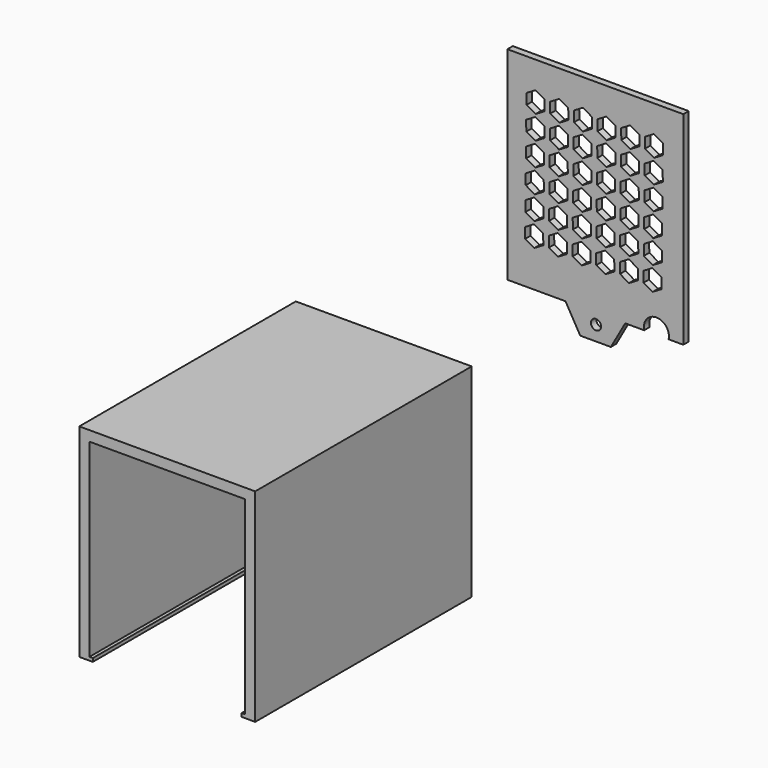
from build123d import *

# Parameters (mm, degrees)
F1_DEPTH = 80
F2_W     = 52
F2_H     = 60
F3_DEPTH = 2
F5_DEPTH = 2
F6_R     = 1.5
F7_DEPTH = 2
F9_DEPTH = 2


with BuildPart() as f1:
    # F0 (on Front) → F1 (new body)
    with BuildSketch(Plane.XZ):
        Polygon((-29.206732, -51.057696), (-25.206732, -51.057696), (-25.206732, -50.057696), (-26.206732, -50.057696), (-26.206732, 5.942304), (19.793268, 5.942304), (19.793268, -50.057696), (18.793268, -50.057696), (18.793268, -51.057696), (22.793268, -51.057696), (22.793268, 8.942304), (-29.206732, 8.942304), align=None)
    extrude(amount=F1_DEPTH)


with BuildPart() as f3:
    # F2 (on Front) → F3 (new body)
    with BuildSketch(Plane.XZ):
        with Locations((59.342861, 64.913309)):
            Rectangle(F2_W, F2_H)
    extrude(amount=-F3_DEPTH)

    # F4 (on face) → F5 (cut)
    with BuildSketch(Plane(origin=(0, 2, 0), x_dir=(-1, 0, 0), z_dir=(0, 1, 0))):
        Polygon((-76.702054, 80.735688), (-74.009892, 82.250348), (-73.975546, 85.339159), (-76.633361, 86.913309), (-79.325523, 85.398649), (-79.359869, 82.309838), align=None)
        Polygon((-69.633363, 86.918969), (-72.325525, 85.404308), (-72.359871, 82.315498), (-69.702056, 80.741348), (-67.009895, 82.256008), (-66.975548, 85.344818), align=None)
        Polygon((-62.633365, 86.924629), (-65.325527, 85.409968), (-65.359874, 82.321158), (-62.702058, 80.747007), (-60.009897, 82.261668), (-59.97555, 85.350478), align=None)
        Polygon((-55.633368, 86.930288), (-58.325529, 85.415628), (-58.359876, 82.326817), (-55.702061, 80.752667), (-53.009899, 82.267328), (-52.975553, 85.356138), align=None)
        Polygon((-48.63337, 86.935948), (-51.325532, 85.421288), (-51.359878, 82.332477), (-48.702063, 80.758327), (-46.009901, 82.272987), (-45.975555, 85.361798), align=None)
        Polygon((-41.633372, 86.941608), (-44.325534, 85.426948), (-44.35988, 82.338137), (-41.702065, 80.763987), (-39.009904, 82.278647), (-38.975557, 85.367458), align=None)
        Polygon((-41.62137, 73.764452), (-38.929208, 75.279112), (-38.894862, 78.367923), (-41.552677, 79.942073), (-44.244839, 78.427413), (-44.279185, 75.338602), align=None)
        Polygon((-58.244834, 78.416093), (-58.279181, 75.327283), (-55.621365, 73.753132), (-52.929204, 75.267793), (-52.894857, 78.356603), (-55.552672, 79.930753), align=None)
        Polygon((-51.244836, 78.421753), (-51.279183, 75.332942), (-48.621368, 73.758792), (-45.929206, 75.273453), (-45.89486, 78.362263), (-48.552675, 79.936413), align=None)
        Polygon((-65.279178, 75.321623), (-62.621363, 73.747473), (-59.929201, 75.262133), (-59.894855, 78.350943), (-62.55267, 79.925094), (-65.244832, 78.410433), align=None)
        Polygon((-66.894853, 78.345284), (-69.552668, 79.919434), (-72.244829, 78.404774), (-72.279176, 75.315963), (-69.621361, 73.741813), (-66.929199, 75.256473), align=None)
        Polygon((-76.621359, 73.736153), (-73.929197, 75.250813), (-73.89485, 78.339624), (-76.552666, 79.913774), (-79.244827, 78.399114), (-79.279174, 75.310303), align=None)
        Polygon((-41.540675, 66.764917), (-38.848513, 68.279578), (-38.814166, 71.368388), (-41.471982, 72.942538), (-44.164143, 71.427878), (-44.19849, 68.339067), align=None)
        Polygon((-58.164139, 71.416558), (-58.198485, 68.327748), (-55.54067, 66.753598), (-52.848508, 68.268258), (-52.814162, 71.357068), (-55.471977, 72.931219), align=None)
        Polygon((-51.164141, 71.422218), (-51.198487, 68.333408), (-48.540672, 66.759257), (-45.848511, 68.273918), (-45.814164, 71.362728), (-48.471979, 72.936878), align=None)
        Polygon((-65.198483, 68.322088), (-62.540668, 66.747938), (-59.848506, 68.262598), (-59.81416, 71.351409), (-62.471975, 72.925559), (-65.164136, 71.410898), align=None)
        Polygon((-66.814157, 71.345749), (-69.471972, 72.919899), (-72.164134, 71.405239), (-72.198481, 68.316428), (-69.540665, 66.742278), (-66.848504, 68.256938), align=None)
        Polygon((-76.540663, 66.736618), (-73.848502, 68.251278), (-73.814155, 71.340089), (-76.47197, 72.914239), (-79.164132, 71.399579), (-79.198478, 68.310768), align=None)
        Polygon((-41.459979, 59.765382), (-38.767818, 61.280043), (-38.733471, 64.368853), (-41.391286, 65.943003), (-44.083448, 64.428343), (-44.117794, 61.339533), align=None)
        Polygon((-58.083443, 64.417023), (-58.11779, 61.328213), (-55.459975, 59.754063), (-52.767813, 61.268723), (-52.733466, 64.357534), (-55.391282, 65.931684), align=None)
        Polygon((-51.083446, 64.422683), (-51.117792, 61.333873), (-48.459977, 59.759722), (-45.767815, 61.274383), (-45.733469, 64.363193), (-48.391284, 65.937344), align=None)
        Polygon((-65.117788, 61.322553), (-62.459972, 59.748403), (-59.767811, 61.263063), (-59.733464, 64.351874), (-62.391279, 65.926024), (-65.083441, 64.411364), align=None)
        Polygon((-66.733462, 64.346214), (-69.391277, 65.920364), (-72.083439, 64.405704), (-72.117785, 61.316893), (-69.45997, 59.742743), (-66.767808, 61.257403), align=None)
        Polygon((-76.459968, 59.737083), (-73.767806, 61.251744), (-73.73346, 64.340554), (-76.391275, 65.914704), (-79.083436, 64.400044), (-79.117783, 61.311233), align=None)
        Polygon((-41.379284, 52.765847), (-38.687122, 54.280508), (-38.652776, 57.369318), (-41.310591, 58.943469), (-44.002753, 57.428808), (-44.037099, 54.339998), align=None)
        Polygon((-58.002748, 57.417489), (-58.037094, 54.328678), (-55.379279, 52.754528), (-52.687118, 54.269188), (-52.652771, 57.357999), (-55.310586, 58.932149), align=None)
        Polygon((-51.00275, 57.423148), (-51.037097, 54.334338), (-48.379282, 52.760188), (-45.68712, 54.274848), (-45.652773, 57.363659), (-48.310589, 58.937809), align=None)
        Polygon((-65.037092, 54.323018), (-62.379277, 52.748868), (-59.687115, 54.263528), (-59.652769, 57.352339), (-62.310584, 58.926489), (-65.002746, 57.411829), align=None)
        Polygon((-66.652767, 57.346679), (-69.310582, 58.920829), (-72.002743, 57.406169), (-72.03709, 54.317358), (-69.379275, 52.743208), (-66.687113, 54.257868), align=None)
        Polygon((-76.379272, 52.737548), (-73.687111, 54.252209), (-73.652764, 57.341019), (-76.310579, 58.915169), (-79.002741, 57.400509), (-79.037088, 54.311699), align=None)
        Polygon((-41.298588, 45.766313), (-38.606427, 47.280973), (-38.57208, 50.369783), (-41.229895, 51.943934), (-43.922057, 50.429273), (-43.956404, 47.340463), align=None)
        Polygon((-57.922053, 50.417954), (-57.956399, 47.329143), (-55.298584, 45.754993), (-52.606422, 47.269653), (-52.572076, 50.358464), (-55.229891, 51.932614), align=None)
        Polygon((-50.922055, 50.423614), (-50.956401, 47.334803), (-48.298586, 45.760653), (-45.606425, 47.275313), (-45.572078, 50.364124), (-48.229893, 51.938274), align=None)
        Polygon((-64.956397, 47.323483), (-62.298582, 45.749333), (-59.60642, 47.263993), (-59.572073, 50.352804), (-62.229889, 51.926954), (-64.92205, 50.412294), align=None)
        Polygon((-66.572071, 50.347144), (-69.229886, 51.921294), (-71.922048, 50.406634), (-71.956394, 47.317824), (-69.298579, 45.743673), (-66.606418, 47.258334), align=None)
        Polygon((-76.298577, 45.738013), (-73.606415, 47.252674), (-73.572069, 50.341484), (-76.229884, 51.915635), (-78.922046, 50.400974), (-78.956392, 47.312164), align=None)
    extrude(amount=-F5_DEPTH, mode=Mode.SUBTRACT)

    # F6 (on Front) → F7 (join)
    with BuildSketch(Plane.XZ):
        Polygon((54.873159, 27.37009), (63.928498, 27.37009), (68.34549, 35.212244), (50.34549, 35.212244), align=None)
        with Locations((59.540547, 31.742692)):
            Circle(F6_R, mode=Mode.SUBTRACT)
    extrude(amount=-F7_DEPTH)

    # F8 (on face) → F9 (cut)
    with BuildSketch(Plane(origin=(0, 2, 0), x_dir=(-1, 0, 0), z_dir=(0, 1, 0))):
        with BuildLine():
            Line((-80.994389, 34.913309), (-73.774983, 34.913309))
            ThreePointArc((-73.774983, 34.913309), (-77.384686, 39.431283), (-80.994389, 34.913309))
        make_face()
    extrude(amount=-F9_DEPTH, mode=Mode.SUBTRACT)


solid = Compound([f1.part, f3.part])
